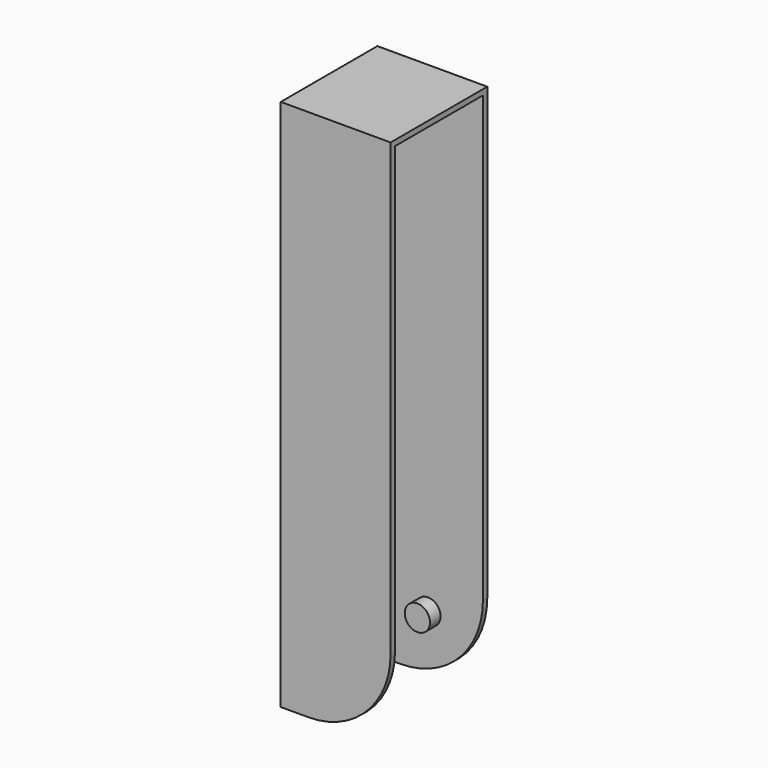
from build123d import *

# Parameters (mm, degrees)
F1_DEPTH = 27.94
F3_DEPTH = 25.146
F4_R     = 2.921
F6_DEPTH = 3.048
F5_R     = 2.921
F7_DEPTH = 3.048
F9_DEPTH = 5.08


with BuildPart() as f1:
    # F0 (on Front) → F1 (new body)
    with BuildSketch(Plane.XZ):
        with BuildLine():
            Line((0, 123.19), (-25.4, 123.19))
            Line((-25.4, 123.19), (-25.4, 0))
            Line((-25.4, 0), (-19.05, 0))
            ThreePointArc((-19.05, 0), (-5.579616, 5.579616), (0, 19.05))
            Line((0, 19.05), (0, 123.19))
        make_face()
    extrude(amount=F1_DEPTH)

    # F2 (on face) → F3 (cut)
    with BuildSketch(Plane.YZ):
        Polygon((-1.27, -9.116447), (-1.27, 19.05), (-26.67, 19.05), (-26.67, -8.348415), align=None)
        Polygon((-1.27, 19.05), (-1.27, 20.321167), (-1.27, 121.92), (-26.67, 121.92), (-26.67, 20.32), (-26.67, 19.05), align=None)
    extrude(amount=-F3_DEPTH, mode=Mode.SUBTRACT)

    # F4 (on face) → F6 (join)
    with BuildSketch(Plane(origin=(0, -26.67, 0), x_dir=(-1, 0, 0), z_dir=(0, 1, 0))):
        with Locations((12.7, 12.7)):
            Circle(F4_R)
    extrude(amount=F6_DEPTH)

    # F5 (on face) → F7 (join)
    with BuildSketch(Plane.XZ.offset(1.27)):
        with Locations((-12.7, 12.7)):
            Circle(F5_R)
    extrude(amount=F7_DEPTH)

    # F8 (on face) → F9 (cut)
    with BuildSketch(Plane(origin=(-25.4, 0, 0), x_dir=(0, -1, 0), z_dir=(-1, 0, 0))):
        Polygon((26.67, 23.318777), (1.27, 23.318777), (1.27, 0.254), (1.27, 0), (26.67, 0), (26.67, 0.254), align=None)
    extrude(amount=-F9_DEPTH, mode=Mode.SUBTRACT)


solid = f1.part
